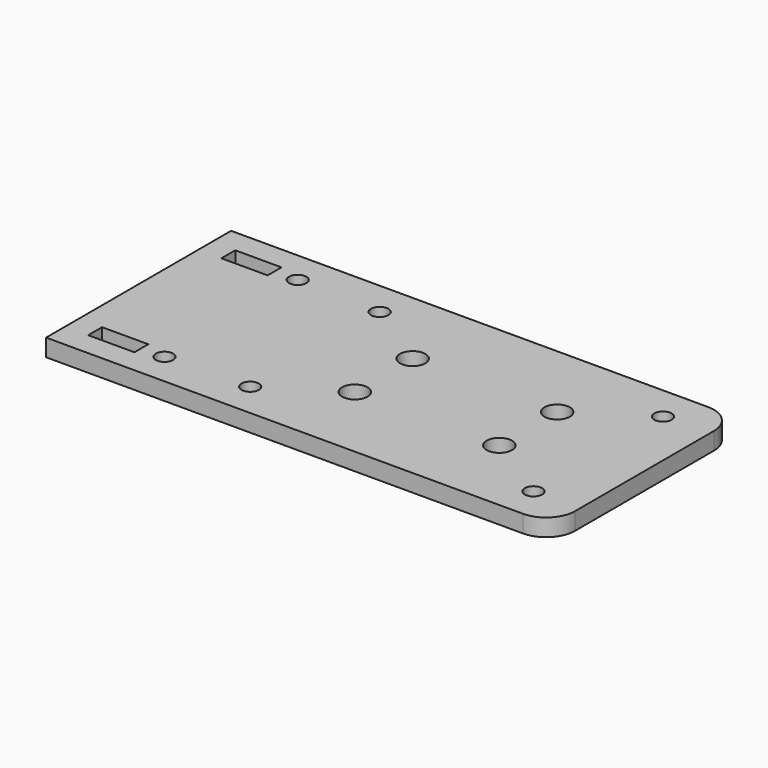
from build123d import *

# Parameters (mm, degrees)
F1_W     = 87.5
F1_H     = 40
F1_W_2   = 8
F1_H_2   = 3
F1_R     = 1.5
F2_DEPTH = 3
F4_D     = 4.4
F5_R     = 5


with BuildPart() as f2:
    # F1 (on Top) → F2 (new body)
    with BuildSketch(Plane.XY):
        with Locations((-11.25, 0)):
            Rectangle(F1_W, F1_H)
        with Locations((-47, -14.4)):
            Rectangle(F1_W_2, F1_H_2, mode=Mode.SUBTRACT)
        with Locations((-39, -14.4)):
            Circle(F1_R, mode=Mode.SUBTRACT)
        with Locations((-24.5, -14)):
            Circle(F1_R, mode=Mode.SUBTRACT)
        with Locations((24.5, -14)):
            Circle(F1_R, mode=Mode.SUBTRACT)
        with Locations((-47, 14.4)):
            Rectangle(F1_W_2, F1_H_2, mode=Mode.SUBTRACT)
        with Locations((-39, 14.4)):
            Circle(F1_R, mode=Mode.SUBTRACT)
        with Locations((-24.5, 14)):
            Circle(F1_R, mode=Mode.SUBTRACT)
        with Locations((24.5, 14)):
            Circle(F1_R, mode=Mode.SUBTRACT)
    extrude(amount=F2_DEPTH)

    # F4 (through all)
    with Locations(Plane.XY.offset(3)):
        with Locations((-12.5, 6.125), (-12.5, -6.375), (12.5, 6.125), (12.5, -6.375)):
            Hole(F4_D / 2)

    # F5
    f5_edges = [f2.edges().sort_by_distance(p)[0] for p in [
        (32.5, 20, 1.5),
        (32.5, -20, 1.5),
    ]]
    fillet(f5_edges, radius=F5_R)


solid = f2.part
